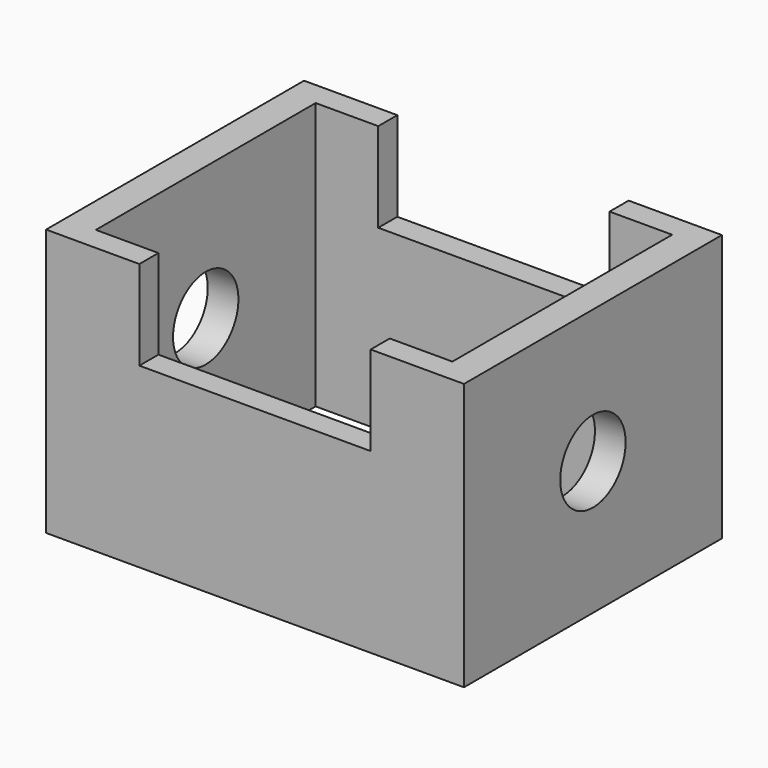
from build123d import *

# Parameters (mm, degrees)
F0_W     = 139.96376
F0_H     = 89.45696
F1_DEPTH = 54
F3_W     = 119.418622
F3_H     = 92.025094
F4_DEPTH = 98
F5_W     = 77.472278
F5_H     = 29.961662
F6_DEPTH = 195
F7_R     = 13.686729
F8_DEPTH = 202


with BuildPart() as f1:
    # F0 (on Front) → F1 (new body)
    with BuildSketch(Plane.XZ):
        Rectangle(F0_W, F0_H)
    extrude(amount=F1_DEPTH)

    # F2: F1 across face


with BuildPart() as f1_1:
    add(f1.part)
    add(f1.part.mirror(Plane(origin=(0, 0, 0), x_dir=(1, 0, 0), z_dir=(0, 1, 0))))

    # F3 (on face) → F4 (cut)
    with BuildSketch(Plane.XY.offset(44.72848)):
        Rectangle(F3_W, F3_H)
    extrude(amount=-F4_DEPTH, mode=Mode.SUBTRACT)

    # F5 (on face) → F6 (cut)
    with BuildSketch(Plane.XZ.offset(54)):
        with Locations((1e-06, 29.747649)):
            Rectangle(F5_W, F5_H)
    extrude(amount=-F6_DEPTH, mode=Mode.SUBTRACT)

    # F7 (on face) → F8 (cut)
    with BuildSketch(Plane(origin=(-69.98188, 0, 0), x_dir=(0, -1, 0), z_dir=(-1, 0, 0))):
        Circle(F7_R)
    extrude(amount=-F8_DEPTH, mode=Mode.SUBTRACT)


solid = f1_1.part
